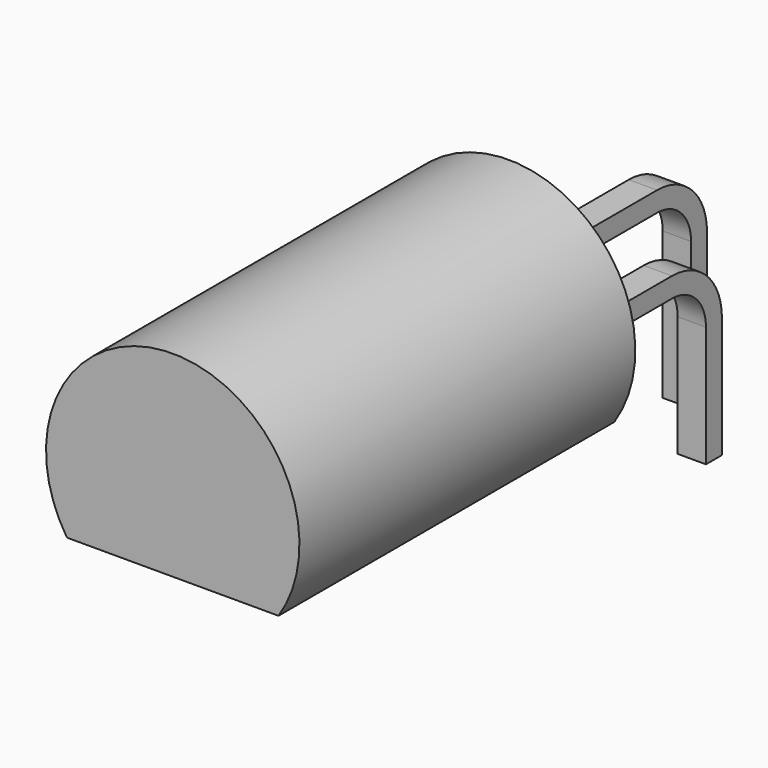
from build123d import *

# Parameters (mm, degrees)
SKETCH006_W = 0.54
SKETCH006_H = 0.38
SKETCH008_W = 0.54
SKETCH008_H = 0.38
SKETCH010_W = 0.54
SKETCH010_H = 0.38
PAD_DEPTH   = 8


with BuildPart() as body001:
    # AdditivePipe: sweep along a path in Sketch005
    with BuildLine(Plane.YZ) as additivepipe_path:
        Line((-2.929204, 1.3), (-1, 1.3))
        ThreePointArc((-1, 1.3), (-0.292893, 1.007107), (0, 0.3))
        Line((0, 0.3), (0, -2))
    # Sketch006 → AdditivePipe (sweep)
    with BuildSketch(Plane.XY):
        Rectangle(SKETCH006_W, SKETCH006_H)
    sweep(path=additivepipe_path.line)


with BuildPart() as body002:
    # AdditivePipe001: sweep along a path in Sketch007
    with BuildLine(Plane.YZ) as additivepipe001_path:
        Line((-2.929204, 1.3), (-1, 1.3))
        ThreePointArc((-1, 1.3), (-0.292893, 1.007107), (0, 0.3))
        Line((0, 0.3), (0, -2))
    # Sketch008 → AdditivePipe001 (sweep)
    with BuildSketch(Plane.XY):
        with Locations((2.6, 0)):
            Rectangle(SKETCH008_W, SKETCH008_H)
    sweep(path=additivepipe001_path.line)


with BuildPart() as body003:
    # AdditivePipe002: sweep along a path in Sketch009
    with BuildLine(Plane.YZ) as additivepipe002_path:
        Line((1.27, -2), (1.27, 0.8))
        ThreePointArc((1.27, 0.8), (0.977107, 1.507107), (0.27, 1.8))
        Line((0.27, 1.8), (-1.329204, 1.8))
        ThreePointArc((-1.329204, 1.8), (-1.74828, 1.736044), (-2.129204, 1.55))
        ThreePointArc((-2.129204, 1.55), (-2.510128, 1.363956), (-2.929204, 1.3))
    # Sketch010 → AdditivePipe002 (sweep)
    with BuildSketch(Plane.XY):
        with Locations((1.3, 1.27)):
            Rectangle(SKETCH010_W, SKETCH010_H)
    sweep(path=additivepipe002_path.line)


with BuildPart() as housing:
    # Sketch011 (on DatumPlane) → Pad (new body)
    with BuildSketch(Plane(origin=(0, -2.929204, 1.3), x_dir=(-1, 0, 0), z_dir=(0, 1, 0))):
        with BuildLine():
            ThreePointArc((0.715769, -1.33), (-1.3, 2.415), (-3.315769, -1.33))
            Line((-3.315769, -1.33), (0.715769, -1.33))
        make_face()
    extrude(amount=-PAD_DEPTH)


solid = Compound([body001.part, body002.part, body003.part, housing.part])
